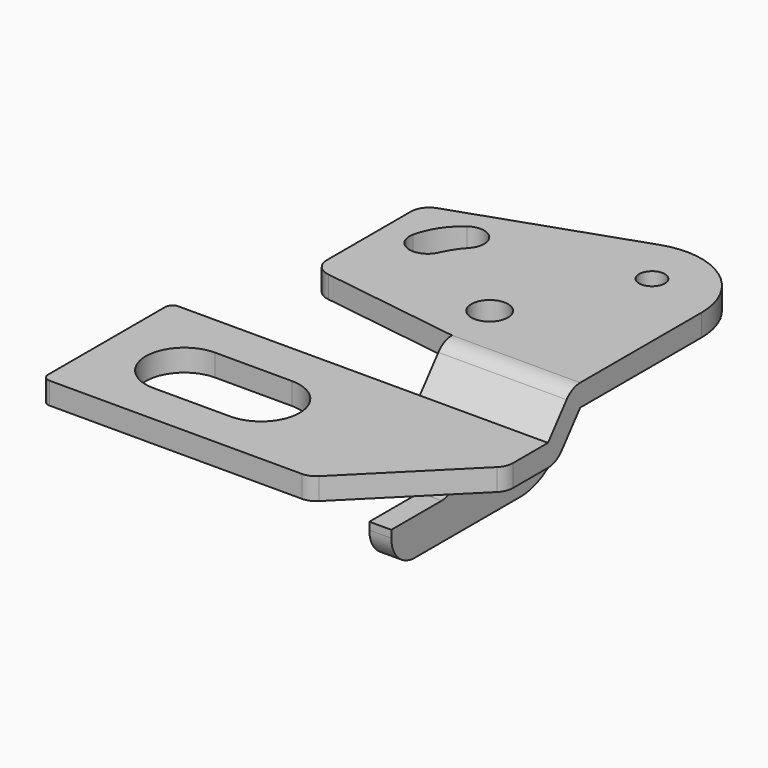
from build123d import *

# Parameters (mm, degrees)
F0_R     = 5
F0_R_2   = 3.500005
F2_DEPTH = 50
F1_W     = 56.675658
F1_H     = 6
F1_W_2   = 79.885715
F3_DEPTH = 100
F4_DEPTH = 6


with BuildPart() as f2:
    # F0 (on Top) → F2 (new body, symmetric)
    with BuildSketch(Plane.XY):
        with BuildLine():
            Line((0, -11), (-65.959916, -11))
            ThreePointArc((-65.959916, -11), (-67.37413, -11.585786), (-67.959916, -13))
            Line((-67.959916, -13), (-67.959916, -53))
            ThreePointArc((-67.959916, -53), (-67.37413, -54.414214), (-65.959916, -55))
            Line((-65.959916, -55), (2.964258, -55))
            ThreePointArc((2.964258, -55), (4.875939, -54.620117), (6.497133, -53.538191))
            Line((6.497133, -53.538191), (33.572958, -26.503055))
            ThreePointArc((33.572958, -26.503055), (34.658762, -24.880017), (35.040084, -22.964863))
            Line((35.040084, -22.964863), (35.024943, 41.443182))
            ThreePointArc((35.024943, 41.443182), (26.636911, 57.721619), (8.513795, 60.348262))
            Line((8.513795, 60.348262), (-39.285382, 43.890292))
            ThreePointArc((-39.285382, 43.890292), (-41.671495, 42.059758), (-42.575934, 39.191592))
            Line((-42.575934, 39.191592), (-42.575934, 10.478197))
            ThreePointArc((-42.575934, 10.478197), (-41.306069, 7.148618), (-38.141498, 5.510286))
            Line((-38.141498, 5.510286), (0, 0))
            Line((0, 0), (0, -11))
        make_face()
        with BuildLine():
            ThreePointArc((-46.493332, -43.818958), (-56.993332, -33.318958), (-46.493332, -22.818958))
            Line((-46.493332, -22.818958), (-25.493332, -22.818958))
            ThreePointArc((-25.493332, -22.818958), (-14.993332, -33.318958), (-25.493332, -43.818958))
            Line((-25.493332, -43.818958), (-46.493332, -43.818958))
        make_face(mode=Mode.SUBTRACT)
        with BuildLine():
            ThreePointArc((-26.106866, 28.092718), (-32.228269, 25.343574), (-35.572339, 31.161354))
            ThreePointArc((-35.572339, 31.161354), (-33.200295, 36.840932), (-28.964332, 41.306447))
            ThreePointArc((-28.964332, 41.306447), (-22.291275, 40.59957), (-22.331264, 33.889296))
            ThreePointArc((-22.331264, 33.889296), (-24.457616, 31.146388), (-26.106866, 28.092718))
        make_face(mode=Mode.SUBTRACT)
        with Locations((-0.805872, 13.877689)):
            Circle(F0_R, mode=Mode.SUBTRACT)
        with Locations((16.990938, 47.085301)):
            Circle(F0_R_2, mode=Mode.SUBTRACT)
    extrude(amount=F2_DEPTH, both=True)

    # F1 (on Right) → F3 (intersect, symmetric)
    with BuildSketch(Plane.YZ):
        with Locations((-39.337829, -13)):
            Rectangle(F1_W, F1_H)
        with BuildLine():
            Line((0, -6), (0, 0))
            ThreePointArc((0, 0), (-2.574616, -0.580466), (-4.651073, -2.209549))
            Line((-4.651073, -2.209549), (-11, -10))
            Line((-11, -10), (-11, -16))
            ThreePointArc((-11, -16), (-8.425384, -15.419534), (-6.348927, -13.790451))
            Line((-6.348927, -13.790451), (0, -6))
        make_face()
        with Locations((39.942857, -3)):
            Rectangle(F1_W_2, F1_H)
    extrude(amount=F3_DEPTH, both=True, mode=Mode.INTERSECT)


with BuildPart() as f4:
    # F1 (on Right) → F4 (new body)
    with BuildSketch(Plane.YZ):
        with BuildLine():
            Line((31.765494, -23.355214), (0, -23.355214))
            Line((0, -23.355214), (-6.348927, -31.145665))
            ThreePointArc((-6.348927, -31.145665), (-8.425384, -32.774748), (-11, -33.355214))
            Line((-11, -33.355214), (-28.234506, -33.355214))
            Line((-28.234506, -33.355214), (-28.234506, -35.355214))
            ThreePointArc((-28.234506, -35.355214), (-25.89136, -41.012068), (-20.234506, -43.355214))
            Line((-20.234506, -43.355214), (15.765494, -43.355214))
            ThreePointArc((15.765494, -43.355214), (27.079202, -38.668922), (31.765494, -27.355214))
            Line((31.765494, -27.355214), (31.765494, -23.355214))
        make_face()
        with BuildLine():
            ThreePointArc((13.535125, -34.777541), (10.035125, -31.277541), (13.535125, -27.777541))
            Line((13.535125, -27.777541), (20.490863, -27.777541))
            ThreePointArc((20.490863, -27.777541), (23.990863, -31.277541), (20.490863, -34.777541))
            Line((20.490863, -34.777541), (13.535125, -34.777541))
        make_face(mode=Mode.SUBTRACT)
    extrude(amount=F4_DEPTH)


solid = Compound([f2.part, f4.part])
